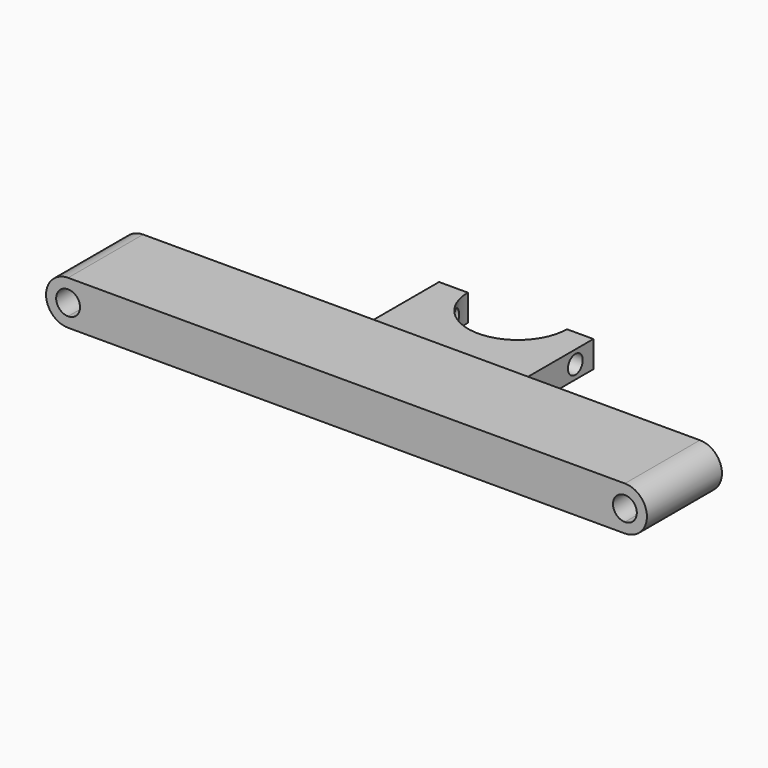
from build123d import *

# Parameters (mm, degrees)
F1_DEPTH = 25.4
F2_W     = 41.815902
F2_H     = 7.212999
F3_DEPTH = 25.4
F5_DEPTH = 7.62
F6_R     = 2.506654
F7_DEPTH = 45.974


with BuildPart() as f1:
    # F0 (on Front) → F1 (new body)
    with BuildSketch(Plane.XZ):
        with BuildLine():
            Line((75.069629, 11.929201), (-75.792603, 11.929201))
            Line((-75.792603, 11.929201), (-75.792603, 9.196899))
            ThreePointArc((-75.792603, 9.196899), (-73.507023, 8.250181), (-72.560304, 5.9646))
            ThreePointArc((-72.560304, 5.9646), (-73.507023, 3.67902), (-75.792603, 2.732302))
            Line((-75.792603, 2.732302), (-75.792603, 0))
            Line((-75.792603, 0), (75.069629, 0))
            Line((75.069629, 0), (75.069629, 2.7388))
            ThreePointArc((75.069629, 2.7388), (71.843829, 5.9646), (75.069629, 9.1904))
            Line((75.069629, 9.1904), (75.069629, 11.929201))
        make_face()
        with BuildLine():
            Line((-75.792603, 9.196899), (-75.792603, 11.929201))
            ThreePointArc((-75.792603, 11.929201), (-81.757204, 5.9646), (-75.792603, 0))
            Line((-75.792603, 0), (-75.792603, 2.732302))
            ThreePointArc((-75.792603, 2.732302), (-79.024902, 5.9646), (-75.792603, 9.196899))
        make_face()
        with BuildLine():
            ThreePointArc((75.069629, 0), (81.034229, 5.9646), (75.069629, 11.929201))
            Line((75.069629, 11.929201), (75.069629, 9.1904))
            ThreePointArc((75.069629, 9.1904), (77.350614, 8.245586), (78.295429, 5.9646))
            ThreePointArc((78.295429, 5.9646), (77.350614, 3.683615), (75.069629, 2.7388))
            Line((75.069629, 2.7388), (75.069629, 0))
        make_face()
    extrude(amount=F1_DEPTH)

    # F2 (on Front) → F3 (join)
    with BuildSketch(Plane.XZ):
        with Locations((4.981325, 6.141954)):
            Rectangle(F2_W, F2_H)
    extrude(amount=-F3_DEPTH)

    # F4 (on face) → F5 (cut)
    with BuildSketch(Plane.XY.offset(9.748454)):
        with BuildLine():
            Line((18.730404, 25.4), (-8.149876, 25.4))
            ThreePointArc((-8.149876, 25.4), (5.290264, 12.121353), (18.730404, 25.4))
        make_face()
    extrude(amount=-F5_DEPTH, mode=Mode.SUBTRACT)

    # F6 (on face) → F7 (cut)
    with BuildSketch(Plane(origin=(-15.926626, 0, 0), x_dir=(0, -1, 0), z_dir=(-1, 0, 0))):
        with Locations((-19.283704, 6.176639)):
            Circle(F6_R)
    extrude(amount=-F7_DEPTH, mode=Mode.SUBTRACT)


solid = f1.part
